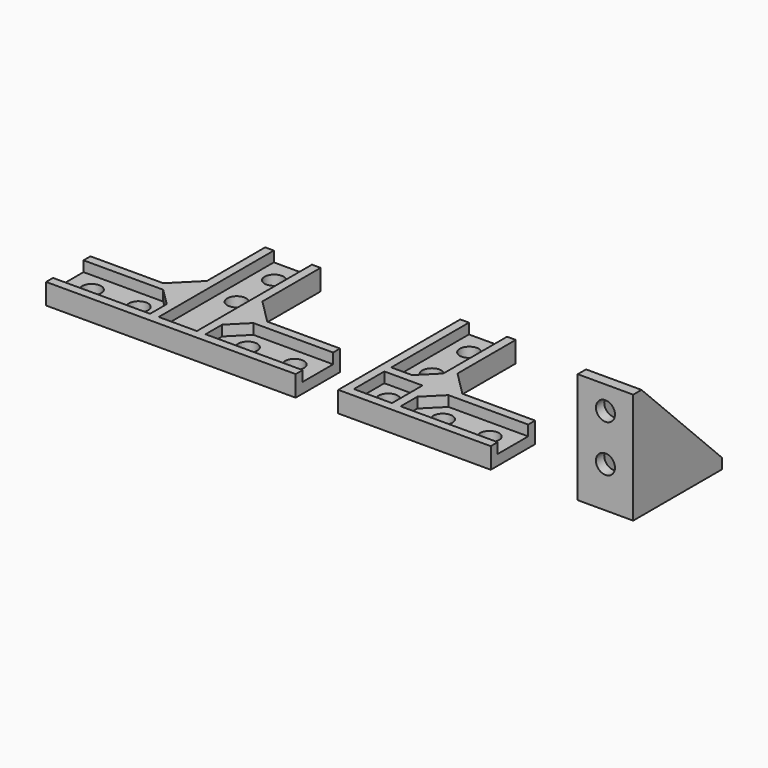
from build123d import *

# Parameters (mm, degrees)
F0_R      = 2.75
F0_W      = 16
F0_H      = 32
F1_DEPTH  = 3
F2_W      = 2.5
F2_H      = 11
F2_W_2    = 11
F2_H_2    = 2.5
F3_DEPTH  = 3
F4_SIZE   = 7
F5_SIZE   = 5
F6_W      = 16
F6_H      = 3
F7_DEPTH  = 29
F8_R      = 2.75
F9_DEPTH  = 25
F11_DEPTH = 2.5
F13_DEPTH = 2.5


with BuildPart() as f1:
    # F0 (on Top) → F1 (new body)
    with BuildSketch(Plane.XY):
        Polygon((-54.791841, -1.225647), (-54.791841, -45.225647), (-10.791841, -45.225647), (-10.791841, -29.225647), (-38.791841, -29.225647), (-38.791841, -1.225647), align=None)
        with Locations((-46.791841, -37.225647)):
            Circle(F0_R, mode=Mode.SUBTRACT)
        with Locations((-31.041841, -37.225647)):
            Circle(F0_R, mode=Mode.SUBTRACT)
        with Locations((-17.541841, -37.225647)):
            Circle(F0_R, mode=Mode.SUBTRACT)
        with Locations((-46.791841, -21.475647)):
            Circle(F0_R, mode=Mode.SUBTRACT)
        with Locations((-46.791841, -7.975647)):
            Circle(F0_R, mode=Mode.SUBTRACT)
        Polygon((-139.072529, -45.225647), (-67.072529, -45.225647), (-67.072529, -29.225647), (-95.072529, -29.225647), (-95.072529, -1.225647), (-111.072529, -1.225647), (-111.072529, -29.225647), (-139.072529, -29.225647), align=None)
        with Locations((-132.322529, -37.225647)):
            Circle(F0_R, mode=Mode.SUBTRACT)
        with Locations((-118.822529, -37.225647)):
            Circle(F0_R, mode=Mode.SUBTRACT)
        with Locations((-87.322529, -37.225647)):
            Circle(F0_R, mode=Mode.SUBTRACT)
        with Locations((-73.822529, -37.225647)):
            Circle(F0_R, mode=Mode.SUBTRACT)
        with Locations((-103.072529, -21.475647)):
            Circle(F0_R, mode=Mode.SUBTRACT)
        with Locations((-103.072529, -7.975647)):
            Circle(F0_R, mode=Mode.SUBTRACT)
        with Locations((21.756346, -28.559807)):
            Rectangle(F0_W, F0_H)
        with Locations((21.756346, -32.809807)):
            Circle(F0_R, mode=Mode.SUBTRACT)
        with Locations((21.756346, -19.309807)):
            Circle(F0_R, mode=Mode.SUBTRACT)
    extrude(amount=F1_DEPTH)

    # F2 (on face) → F3 (join)
    with BuildSketch(Plane.XY.offset(3)):
        Polygon((-54.791841, -45.225647), (-10.791841, -45.225647), (-10.791841, -42.725647), (-38.791841, -42.725647), (-41.291841, -42.725647), (-52.291841, -42.725647), (-52.291841, -31.725647), (-52.291841, -29.225647), (-52.291841, -1.225647), (-54.791841, -1.225647), align=None)
        with Locations((-40.041841, -37.225647)):
            Rectangle(F2_W, F2_H)
        Polygon((-41.291841, -31.725647), (-38.791841, -31.725647), (-10.791841, -31.725647), (-10.791841, -29.225647), (-38.791841, -29.225647), (-38.791841, -1.225647), (-41.291841, -1.225647), (-41.291841, -29.225647), align=None)
        with Locations((-46.791841, -30.475647)):
            Rectangle(F2_W_2, F2_H_2)
        Polygon((-111.072529, -29.225647), (-139.072529, -29.225647), (-139.072529, -31.725647), (-111.072529, -31.725647), (-111.072529, -42.725647), (-108.572529, -42.725647), (-108.572529, -1.225647), (-111.072529, -1.225647), align=None)
        Polygon((-108.572529, -42.725647), (-111.072529, -42.725647), (-139.072529, -42.725647), (-139.072529, -45.225647), (-67.072529, -45.225647), (-67.072529, -42.725647), (-95.072529, -42.725647), (-97.572529, -42.725647), align=None)
        Polygon((-97.572529, -1.225647), (-97.572529, -42.725647), (-95.072529, -42.725647), (-95.072529, -31.725647), (-67.072529, -31.725647), (-67.072529, -29.225647), (-95.072529, -29.225647), (-95.072529, -1.225647), align=None)
    extrude(amount=F3_DEPTH)

    # F4
    f4_edges = [f1.edges().sort_by_distance(p)[0] for p in [
        (-95.072529, -29.225647, 3),
        (-38.791841, -29.225647, 3),
        (-111.072529, -29.225647, 3),
    ]]
    chamfer(f4_edges, length=F4_SIZE)

    # F5
    f5_edges = [f1.edges().sort_by_distance(p)[0] for p in [
        (-95.072529, -31.725647, 4.5),
        (-38.791841, -31.725647, 4.5),
        (-111.072529, -31.725647, 4.5),
        (-41.291841, -29.225647, 4.5),
    ]]
    chamfer(f5_edges, length=F5_SIZE)

    # F6 (on face) → F7 (join)
    with BuildSketch(Plane.XY.offset(3)):
        with Locations((21.756346, -43.059807)):
            Rectangle(F6_W, F6_H)
    extrude(amount=F7_DEPTH)

    # F8 (on face) → F9 (cut)
    with BuildSketch(Plane(origin=(0, -41.559807, 0), x_dir=(-1, 0, 0), z_dir=(0, 1, 0))):
        with Locations((-21.756346, 25.25)):
            Circle(F8_R)
        with Locations((-21.756346, 11.75)):
            Circle(F8_R)
    extrude(amount=-F9_DEPTH, mode=Mode.SUBTRACT)

    # F10 (on face) → F11 (join)
    with BuildSketch(Plane.YZ.offset(29.756346)):
        Polygon((-12.559807, 3), (-41.559807, 32), (-41.559807, 3), align=None)
    extrude(amount=-F11_DEPTH)

    # F12 (on face) → F13 (join)
    with BuildSketch(Plane(origin=(13.756346, 0, 0), x_dir=(0, -1, 0), z_dir=(-1, 0, 0))):
        Polygon((12.559807, 3), (41.559807, 3), (41.559807, 32), align=None)
    extrude(amount=-F13_DEPTH)


solid = f1.part
